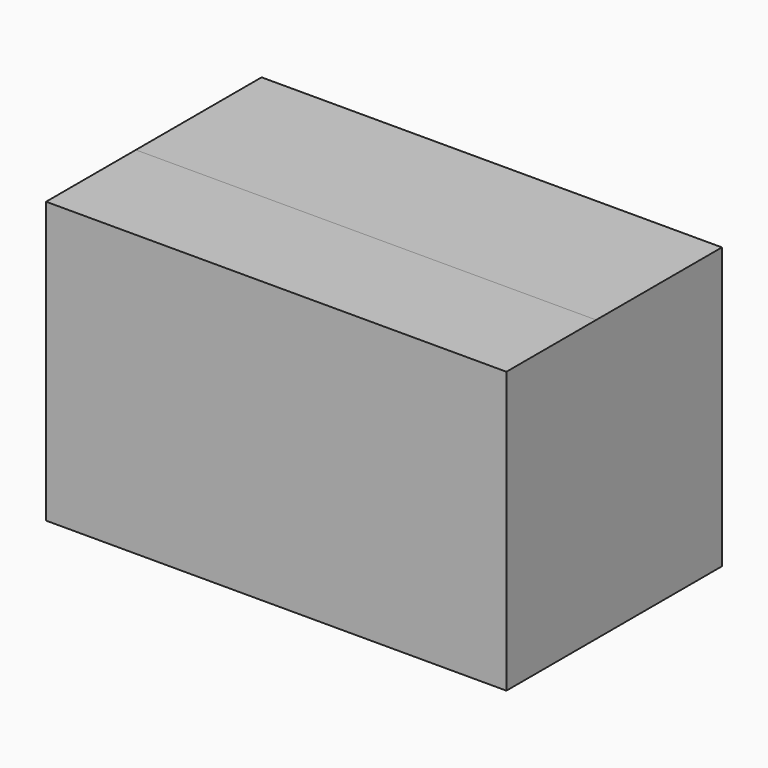
from build123d import *

# Parameters (mm, degrees)
F0_W      = 102.572046
F0_H      = 62.561661
F1_DEPTH  = 25
F1_FACE_W = 102.572046
F1_FACE_H = 62.561662
F2_DEPTH  = 60.022056


with BuildPart() as f1:
    # F0 (on Front) → F1 (new body)
    with BuildSketch(Plane.XZ):
        with Locations((0.363741, 1.454935)):
            Rectangle(F0_W, F0_H)
    extrude(amount=F1_DEPTH)

    # F1_face (on face) → F2 (join)
    with BuildSketch(Plane(origin=(0.363741, -25, 1.454934), x_dir=(1, 0, 0), z_dir=(0, -1, 0))):
        Rectangle(F1_FACE_W, F1_FACE_H)
    extrude(amount=-F2_DEPTH)


solid = f1.part
